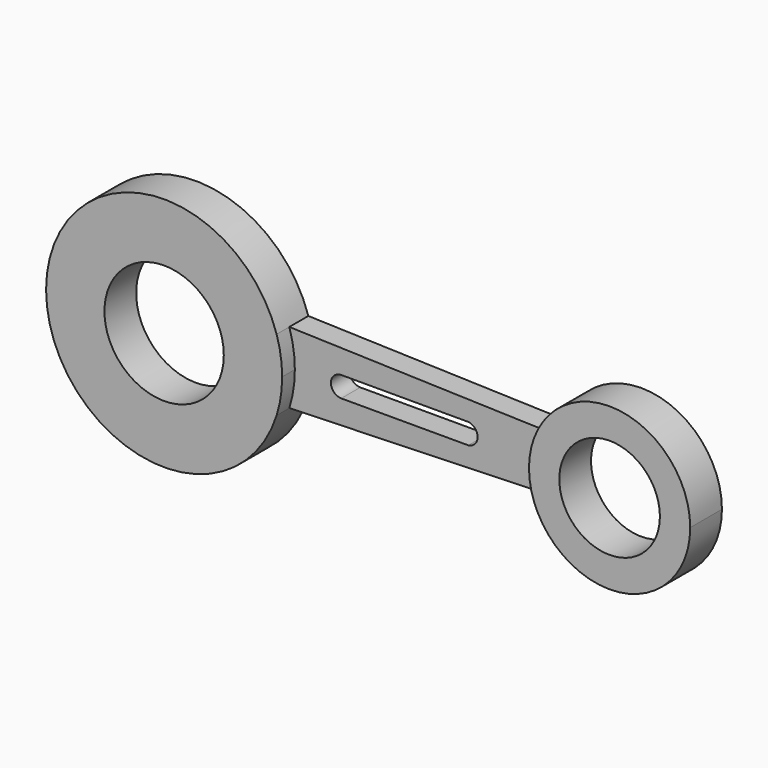
from build123d import *

# Parameters (mm, degrees)
F0_R     = 38.239897
F0_R_2   = 32.224389
F1_DEPTH = 25.4
F2_DEPTH = 15.24


with BuildPart() as f1:
    # F0 (on Front) → F1 (new body)
    with BuildSketch(Plane.XZ):
        with BuildLine():
            ThreePointArc((75.633298, 0), (74.742384, 11.574619), (72.090631, 22.876555))
            ThreePointArc((72.090631, 22.876555), (-75.633298, 0), (72.090631, -22.876555))
            ThreePointArc((72.090631, -22.876555), (74.742384, -11.574619), (75.633298, 0))
        make_face()
        Circle(F0_R, mode=Mode.SUBTRACT)
        with BuildLine():
            ThreePointArc((236.949968, -17.770293), (294.468599, -50.85357), (337.09266, 0))
            ThreePointArc((337.09266, 0), (294.468599, 50.85357), (236.949968, 17.770293))
            ThreePointArc((236.949968, 17.770293), (233.796634, 0), (236.949968, -17.770293))
        make_face()
        with Locations((285.444647, 0)):
            Circle(F0_R_2, mode=Mode.SUBTRACT)
    extrude(amount=F1_DEPTH)


with BuildPart() as f2:
    # F0 (on Front) → F2 (new body)
    with BuildSketch(Plane.XZ):
        with BuildLine():
            ThreePointArc((236.949968, -17.770293), (233.796634, 0), (236.949968, 17.770293))
            Line((236.949968, 17.770293), (72.090631, 22.876555))
            ThreePointArc((72.090631, 22.876555), (74.742384, 11.574619), (75.633298, 0))
            ThreePointArc((75.633298, 0), (74.742384, -11.574619), (72.090631, -22.876555))
            Line((72.090631, -22.876555), (236.949968, -17.770293))
        make_face()
        with BuildLine():
            ThreePointArc((105.355851, -6.603423), (98.76376, 0), (105.355851, 6.603423))
            Line((105.355851, 6.603423), (186.795814, 6.603423))
            ThreePointArc((186.795814, 6.603423), (192.711517, 0), (186.795814, -6.603423))
            Line((186.795814, -6.603423), (105.355851, -6.603423))
        make_face(mode=Mode.SUBTRACT)
    extrude(amount=F2_DEPTH)


solid = Compound([f1.part, f2.part])
